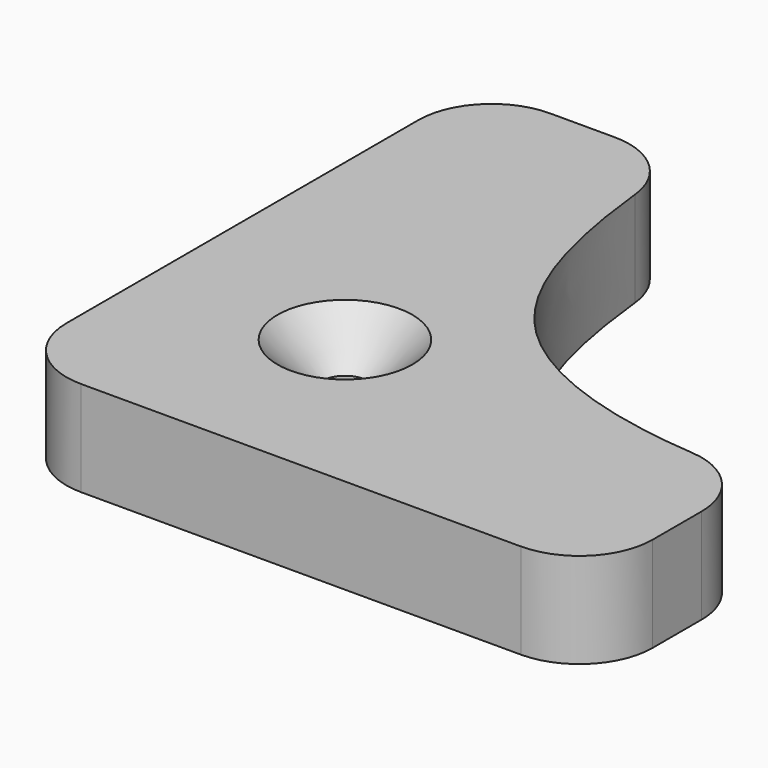
from build123d import *

# Parameters (mm, degrees)
F1_R     = 1.6
F2_DEPTH = 6.5
F3_SIZE  = 3
F4_R     = 5


with BuildPart() as f2:
    # F1 (on Top) → F2 (new body)
    with BuildSketch(Plane.XY):
        with BuildLine():
            Line((-6, 20), (-20, 20))
            Line((-20, 20), (-20, -20))
            Line((-20, -20), (20, -20))
            Line((20, -20), (20, -6))
            add(Edge.make_bspline(
                [(-6, 20), (-5.4739157377, 12.0071208998), (-3.301555689, -2.9531264796), (12.0770271157, -6.1008679405), (20, -6)],
                knots=[0, 0, 0, 0, 0.5, 1, 1, 1, 1], degree=3))
        make_face()
        with Locations((-7.2231281083, -7.2231281083)):
            Circle(F1_R, mode=Mode.SUBTRACT)
    extrude(amount=F2_DEPTH)

    # F3
    f3_edges = [f2.edges().sort_by_distance(p)[0] for p in [
        (-8.823128, -7.223128, 6.5),
    ]]
    chamfer(f3_edges, length=F3_SIZE)

    # F4
    f4_edges = [f2.edges().sort_by_distance(p)[0] for p in [
        (-20, -20, 3.25),
        (20, -20, 3.25),
        (20, -6, 3.25),
        (-20, 20, 3.25),
        (-6, 20, 3.25),
    ]]
    fillet(f4_edges, radius=F4_R)


solid = f2.part
